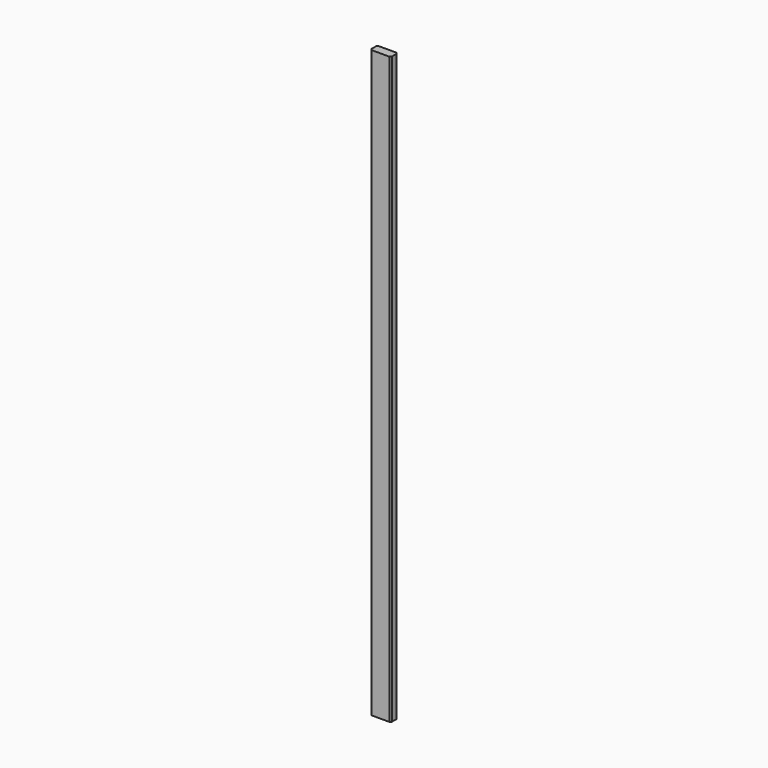
from build123d import *

# Parameters (mm, degrees)
F0_W     = 70
F0_H     = 30
F1_DEPTH = 2000
F2_SIZE  = 5
F3_DEPTH = 1047


with BuildPart() as f1:
    # F0 (on Top) → F1 (new body)
    with BuildSketch(Plane.XY):
        with Locations((11.981502, -15)):
            Rectangle(F0_W, F0_H)
    extrude(amount=F1_DEPTH)

    # F2
    f2_edges = [f1.edges().sort_by_distance(p)[0] for p in [
        (-23.018498, -30, 1000),
        (46.981502, -30, 1000),
        (-23.018498, 0, 1000),
        (46.981502, 0, 1000),
    ]]
    chamfer(f2_edges, length=F2_SIZE)

    # F1_face (on face) → F3 (join)
    with BuildSketch(Plane(origin=(11.981502, -15, 2000), x_dir=(1, 0, 0), z_dir=(0, 0, 1))):
        Polygon((30, 15), (-30, 15), (-35, 10), (-35, -10), (-30, -15), (30, -15), (35, -10), (35, 10), align=None)
    extrude(amount=-F3_DEPTH)


solid = f1.part
